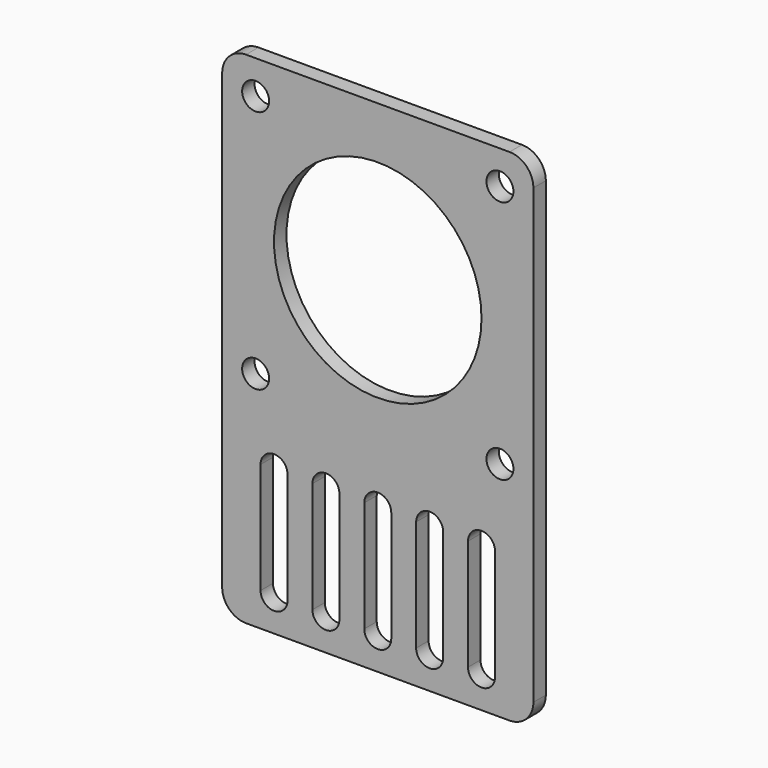
from build123d import *

# Parameters (mm, degrees)
F0_R     = 2.6
F0_R_2   = 20
F1_DEPTH = 3


with BuildPart() as f1:
    # F0 (on Front) → F1 (new body)
    with BuildSketch(Plane.XZ):
        with BuildLine():
            ThreePointArc((-30, -36.586437), (-28.652691, -39.839129), (-25.4, -41.186437))
            Line((-25.4, -41.186437), (25.4, -41.186437))
            ThreePointArc((25.4, -41.186437), (28.652691, -39.839129), (30, -36.586437))
            Line((30, -36.586437), (30, 50.713563))
            ThreePointArc((30, 50.713563), (28.652691, 53.966254), (25.4, 55.313563))
            Line((25.4, 55.313563), (-25.4, 55.313563))
            ThreePointArc((-25.4, 55.313563), (-28.652691, 53.966254), (-30, 50.713563))
            Line((-30, 50.713563), (-30, -36.586437))
        make_face()
        with BuildLine():
            ThreePointArc((-22.6, -13.332915), (-20, -10.732915), (-17.4, -13.332915))
            Line((-17.4, -13.332915), (-17.4, -34.732915))
            ThreePointArc((-17.4, -34.732915), (-20, -37.332915), (-22.6, -34.732915))
            Line((-22.6, -34.732915), (-22.6, -13.332915))
        make_face(mode=Mode.SUBTRACT)
        with BuildLine():
            ThreePointArc((-12.6, -13.332915), (-10, -10.732915), (-7.4, -13.332915))
            Line((-7.4, -13.332915), (-7.4, -34.732915))
            ThreePointArc((-7.4, -34.732915), (-10, -37.332915), (-12.6, -34.732915))
            Line((-12.6, -34.732915), (-12.6, -13.332915))
        make_face(mode=Mode.SUBTRACT)
        with Locations((-23.55, 1.763563)):
            Circle(F0_R, mode=Mode.SUBTRACT)
        with BuildLine():
            ThreePointArc((-2.6, -13.332915), (0, -10.732915), (2.6, -13.332915))
            Line((2.6, -13.332915), (2.6, -34.732915))
            ThreePointArc((2.6, -34.732915), (0, -37.332915), (-2.6, -34.732915))
            Line((-2.6, -34.732915), (-2.6, -13.332915))
        make_face(mode=Mode.SUBTRACT)
        with BuildLine():
            ThreePointArc((7.4, -13.332915), (10, -10.732915), (12.6, -13.332915))
            Line((12.6, -13.332915), (12.6, -34.732915))
            ThreePointArc((12.6, -34.732915), (10, -37.332915), (7.4, -34.732915))
            Line((7.4, -34.732915), (7.4, -13.332915))
        make_face(mode=Mode.SUBTRACT)
        with BuildLine():
            ThreePointArc((17.4, -13.332915), (20, -10.732915), (22.6, -13.332915))
            Line((22.6, -13.332915), (22.6, -34.732915))
            ThreePointArc((22.6, -34.732915), (20, -37.332915), (17.4, -34.732915))
            Line((17.4, -34.732915), (17.4, -13.332915))
        make_face(mode=Mode.SUBTRACT)
        with Locations((23.55, 1.763563)):
            Circle(F0_R, mode=Mode.SUBTRACT)
        with Locations((-23.55, 48.863563)):
            Circle(F0_R, mode=Mode.SUBTRACT)
        with Locations((0, 25.313563)):
            Circle(F0_R_2, mode=Mode.SUBTRACT)
        with Locations((23.55, 48.863563)):
            Circle(F0_R, mode=Mode.SUBTRACT)
    extrude(amount=F1_DEPTH)


solid = f1.part
